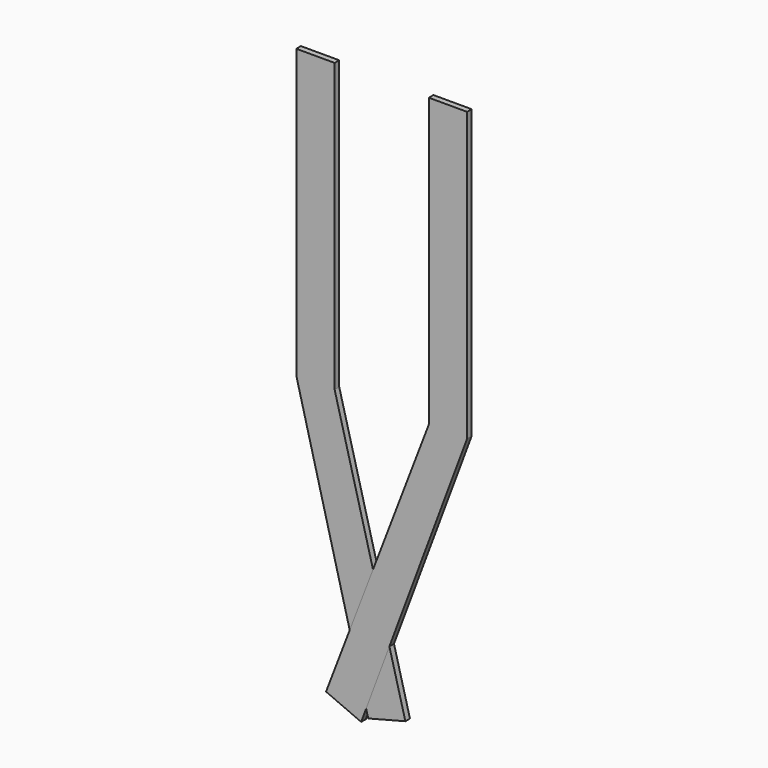
from build123d import *

# Parameters (mm, degrees)
F1_DEPTH = 3
F3_DEPTH = 3


with BuildPart() as f1:
    # F0 (on Front) → F1 (new body)
    with BuildSketch(Plane.XZ):
        Polygon((-41.219511, 150), (-41.219511, 0), (-3.709068, -145.234179), (15.655489, -140.232786), (-21.219511, 0), (-21.219511, 150), align=None)
    extrude(amount=F1_DEPTH)


with BuildPart() as f3:
    # F2 (on Front) → F3 (new body)
    with BuildSketch(Plane.XZ):
        Polygon((47.858869, 150), (27.903363, 150), (27.903363, 0), (-25.709153, -140.091749), (-7.394317, -148.023936), (47.858869, 0), align=None)
    extrude(amount=F3_DEPTH)


solid = Compound([f1.part, f3.part])
